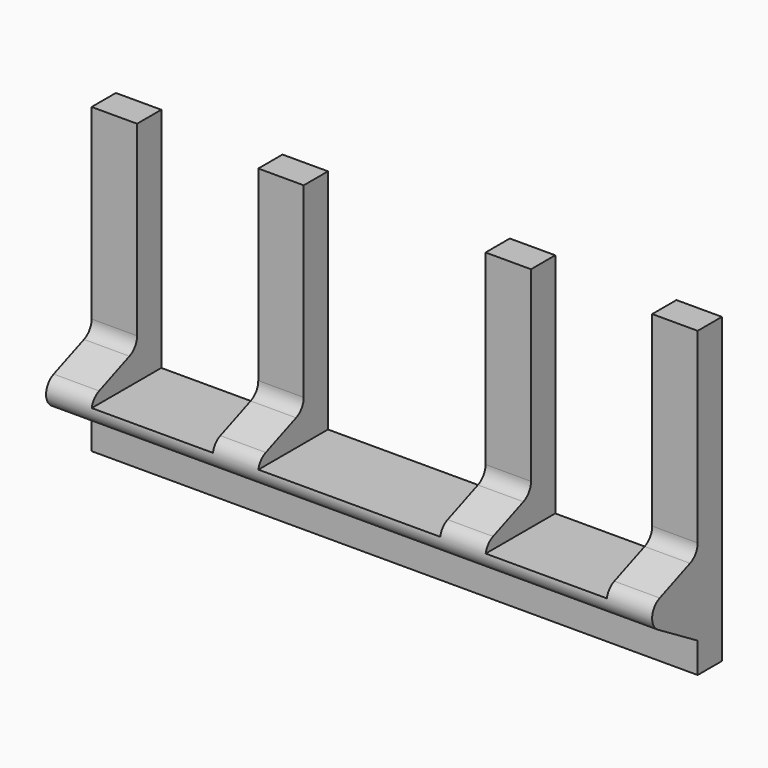
from build123d import *

# Parameters (mm, degrees)
F0_W     = 4000
F0_H     = 2000
F1_DEPTH = 200
F3_DEPTH = 4000
F4_R     = 100
F5_R     = 100
F6_W     = 800
F6_H     = 1500
F6_W_2   = 1200
F7_DEPTH = 575.6786659604


with BuildPart() as f1:
    # F0 (on Front) → F1 (new body)
    with BuildSketch(Plane.XZ):
        with Locations((-2000, 1000)):
            Rectangle(F0_W, F0_H)
    extrude(amount=F1_DEPTH)

    # F2 (on Right) → F3 (join, through all)
    with BuildSketch(Plane.YZ):
        Polygon((-700, 500), (-200, 200), (-200, 700), align=None)
    extrude(amount=-F3_DEPTH)

    # F4
    f4_edges = [f1.edges().sort_by_distance(p)[0] for p in [
        (-2000, -700, 500),
    ]]
    fillet(f4_edges, radius=F4_R)

    # F5
    f5_edges = [f1.edges().sort_by_distance(p)[0] for p in [
        (-2000, -200, 700),
    ]]
    fillet(f5_edges, radius=F5_R)

    # F6 (on face) → F7 (cut, through all)
    with BuildSketch(Plane.XZ):
        with Locations((-700, 1250)):
            Rectangle(F6_W, F6_H)
        with Locations((-2000, 1250)):
            Rectangle(F6_W_2, F6_H)
        with Locations((-3300, 1250)):
            Rectangle(F6_W, F6_H)
    extrude(amount=F7_DEPTH, mode=Mode.SUBTRACT)


solid = f1.part
